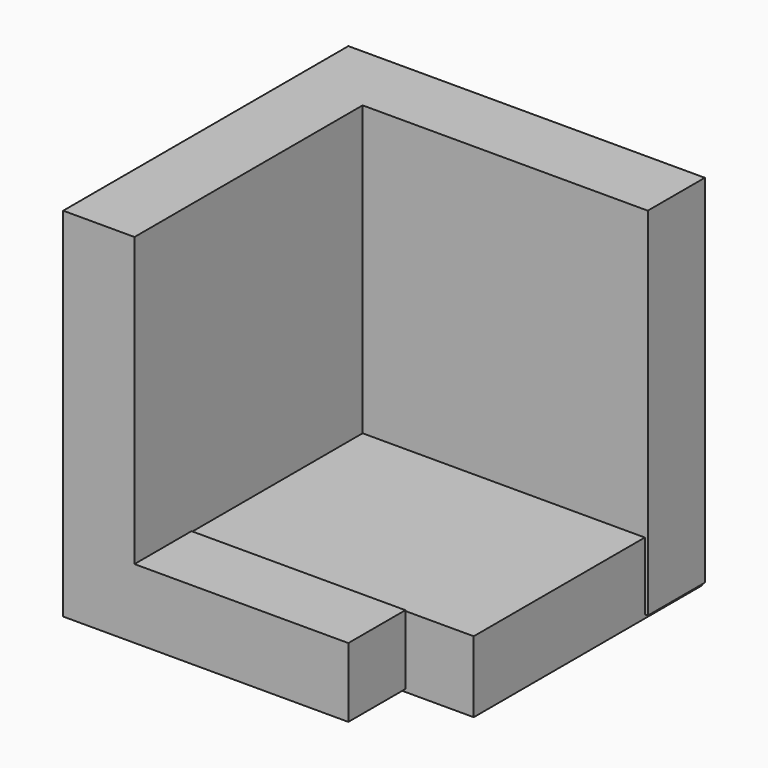
from build123d import *

# Parameters (mm, degrees)
F0_W     = 12.7
F0_H     = 63.5
F1_DEPTH = 63.5
F2_W     = 12.7
F2_H     = 63.5
F3_DEPTH = 63.5
F4_W     = 50.8
F4_H     = 12.7
F5_DEPTH = 50.8
F6_W     = 12.7
F6_H     = 12.365417
F7_DEPTH = 50.8


with BuildPart() as f1:
    # F0 (on Front) → F1 (new body)
    with BuildSketch(Plane.XZ):
        with Locations((6.35, -31.75)):
            Rectangle(F0_W, F0_H)
    extrude(amount=F1_DEPTH)

    # F2 (on Right) → F3 (join)
    with BuildSketch(Plane.YZ):
        with Locations((-6.35, -31.75)):
            Rectangle(F2_W, F2_H)
    extrude(amount=F3_DEPTH)

    # F4 (on Front) → F5 (join)
    with BuildSketch(Plane.XZ):
        with Locations((37.57162, -57.778161)):
            Rectangle(F4_W, F4_H)
    extrude(amount=F5_DEPTH)

    # F6 (on Right) → F7 (join)
    with BuildSketch(Plane.YZ):
        with Locations((-57.15, -57.474271)):
            Rectangle(F6_W, F6_H)
    extrude(amount=F7_DEPTH)


solid = f1.part
